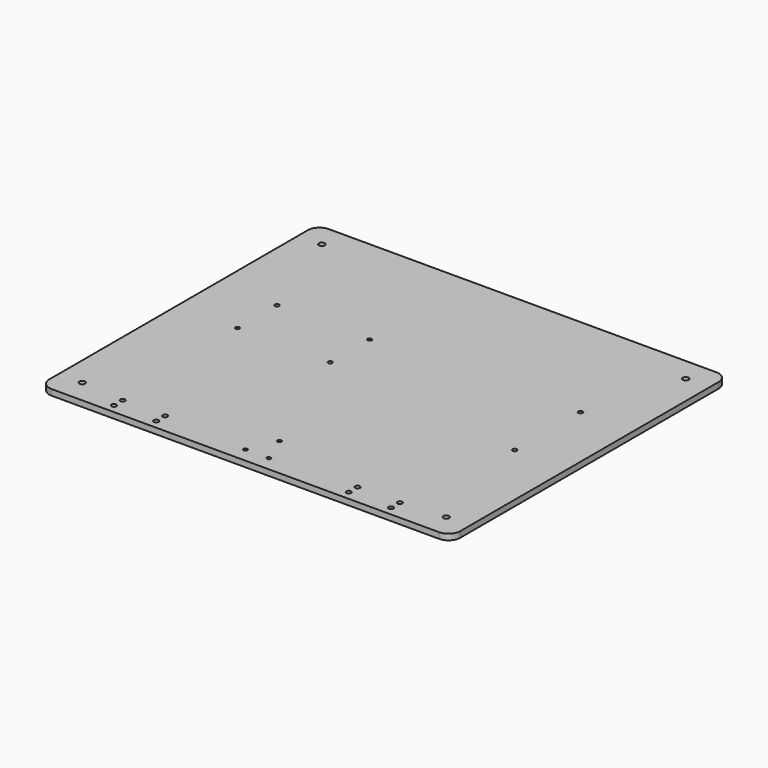
from build123d import *

# Parameters (mm, degrees)
F0_W     = 350
F0_H     = 295.095613
F0_R     = 2.5
F0_R_2   = 2.05
F0_R_3   = 1.6
F0_R_4   = 1.75
F0_R_5   = 1.875
F1_DEPTH = 5
F2_R     = 10


with BuildPart() as f1:
    # F0 (on Top) → F1 (new body)
    with BuildSketch(Plane.XY):
        with Locations((0, 18.629362)):
            Rectangle(F0_W, F0_H)
        with Locations((-155, -108.918445)):
            Circle(F0_R, mode=Mode.SUBTRACT)
        with Locations((-118, -121.390515)):
            Circle(F0_R_2, mode=Mode.SUBTRACT)
        with Locations((-118, -111.990515)):
            Circle(F0_R_2, mode=Mode.SUBTRACT)
        with Locations((-82, -121.390515)):
            Circle(F0_R_2, mode=Mode.SUBTRACT)
        with Locations((-82, -111.990515)):
            Circle(F0_R_2, mode=Mode.SUBTRACT)
        with Locations((-10, -116.368979)):
            Circle(F0_R_3, mode=Mode.SUBTRACT)
        with Locations((-123.439625, 16.949302)):
            Circle(F0_R_4, mode=Mode.SUBTRACT)
        with Locations((-44.439625, 16.949302)):
            Circle(F0_R_4, mode=Mode.SUBTRACT)
        with Locations((10, -116.368979)):
            Circle(F0_R_3, mode=Mode.SUBTRACT)
        with Locations((0, -92.668979)):
            Circle(F0_R_3, mode=Mode.SUBTRACT)
        with Locations((82, -121.390515)):
            Circle(F0_R_2, mode=Mode.SUBTRACT)
        with Locations((82, -111.990515)):
            Circle(F0_R_2, mode=Mode.SUBTRACT)
        with Locations((118, -121.390515)):
            Circle(F0_R_2, mode=Mode.SUBTRACT)
        with Locations((118, -111.990515)):
            Circle(F0_R_2, mode=Mode.SUBTRACT)
        with Locations((155, -108.918445)):
            Circle(F0_R, mode=Mode.SUBTRACT)
        with Locations((130.310908, -4.99459)):
            Circle(F0_R_5, mode=Mode.SUBTRACT)
        with Locations((-123.439625, 58.949302)):
            Circle(F0_R_4, mode=Mode.SUBTRACT)
        with Locations((-44.439625, 58.949302)):
            Circle(F0_R_4, mode=Mode.SUBTRACT)
        with Locations((-155, 146.177168)):
            Circle(F0_R, mode=Mode.SUBTRACT)
        with Locations((130.310908, 64.95541)):
            Circle(F0_R_5, mode=Mode.SUBTRACT)
        with Locations((155, 146.177168)):
            Circle(F0_R, mode=Mode.SUBTRACT)
    extrude(amount=F1_DEPTH)

    # F2
    f2_edges = [f1.edges().sort_by_distance(p)[0] for p in [
        (-175, 166.177168, 2.5),
        (-175, -128.918445, 2.5),
        (175, 166.177168, 2.5),
        (175, -128.918445, 2.5),
    ]]
    fillet(f2_edges, radius=F2_R)


solid = f1.part
